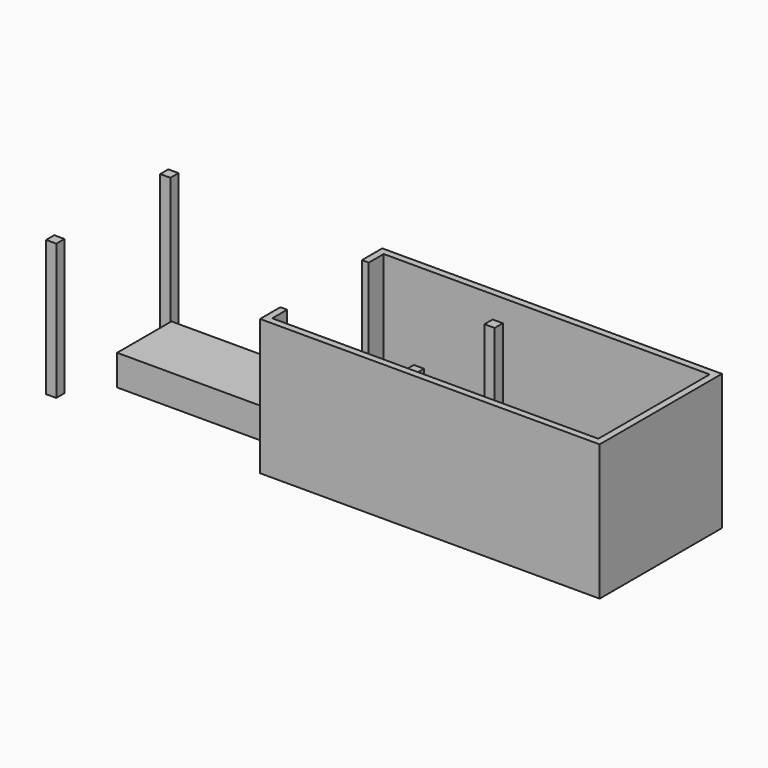
from build123d import *

# Parameters (mm, degrees)
F0_W     = 300
F0_H     = 300
F1_DEPTH = 4000
F2_W     = 5000
F2_H     = 2000
F3_DEPTH = 1300
F4_W     = 600
F4_H     = 3000
F5_DEPTH = 2300
F2_W_2   = 4500
F6_DEPTH = 900
F7_W     = 300
F7_H     = 300
F8_DEPTH = 3500
F4_W_2   = 2500
F4_H_2   = 800
F9_DEPTH = 900


with BuildPart() as f1:
    # F0 (on Top) → F1 (new body)
    with BuildSketch(Plane.XY):
        Polygon((0, 750), (0, 0), (10000, 0), (10000, 4500), (0, 4500), (0, 3750), (200, 3750), (200, 4300), (9800, 4300), (9800, 200), (200, 200), (200, 750), align=None)
        with Locations((-6150, 4350)):
            Rectangle(F0_W, F0_H)
        with Locations((-6150, 150)):
            Rectangle(F0_W, F0_H)
    extrude(amount=F1_DEPTH)


with BuildPart() as f3:
    # F2 (on Top) → F3 (new body)
    with BuildSketch(Plane.XY):
        with Locations((3565.624595, 2500)):
            Rectangle(F2_W, F2_H)
    extrude(amount=F3_DEPTH)


with BuildPart() as f5:
    # F4 (on Top) → F5 (new body)
    with BuildSketch(Plane.XY):
        with Locations((9488.859367, 2789.348945)):
            Rectangle(F4_W, F4_H)
    extrude(amount=F5_DEPTH)


with BuildPart() as f6:
    # F2 (on Top) → F6 (new body)
    with BuildSketch(Plane.XY):
        with Locations((-2983.642519, 2281.394482)):
            Rectangle(F2_W_2, F2_H)
    extrude(amount=F6_DEPTH)


with BuildPart() as f8:
    # F7 (on Top) → F8 (new body)
    with BuildSketch(Plane.XY):
        with Locations((3742.674494, 3918.808126)):
            Rectangle(F7_W, F7_H)
        with Locations((3742.674494, 1018.808126)):
            Rectangle(F7_W, F7_H)
    extrude(amount=F8_DEPTH)


with BuildPart() as f9:
    # F4 (on Top) → F9 (new body)
    with BuildSketch(Plane.XY):
        with Locations((8524.819374, 635.98434)):
            Rectangle(F4_W_2, F4_H_2)
    extrude(amount=F9_DEPTH)


solid = Compound([f1.part, f3.part, f5.part, f6.part, f8.part, f9.part])
